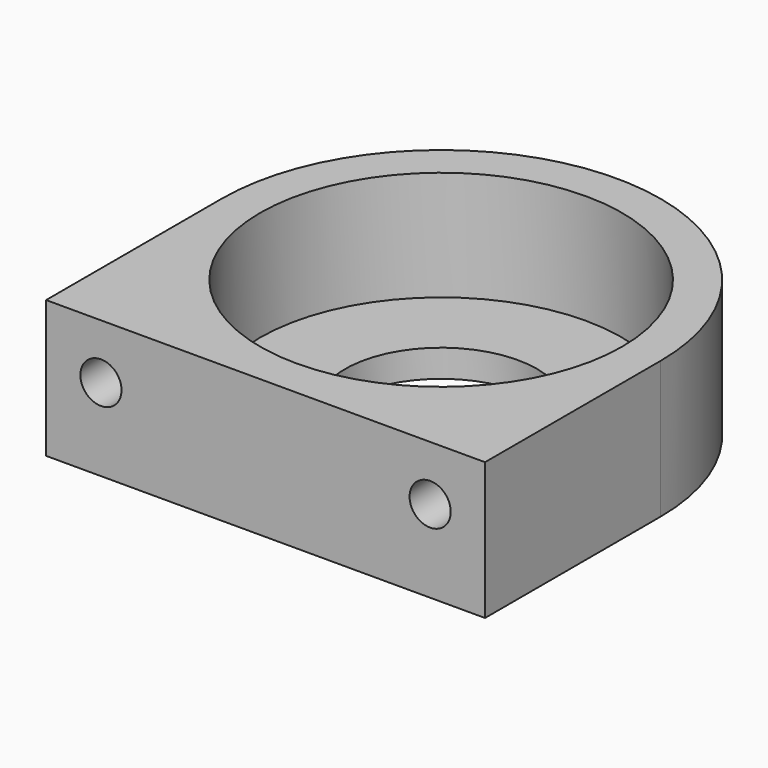
from build123d import *

# Parameters (mm, degrees)
F0_R     = 16
F1_DEPTH = 10
F2_W     = 32
F2_H     = 16
F3_DEPTH = 10
F4_R     = 13.2
F5_DEPTH = 8
F6_R     = 7
F7_DEPTH = 25
F8_R     = 1.5
F9_DEPTH = 7


with BuildPart() as f1:
    # F0 (on Top) → F1 (new body)
    with BuildSketch(Plane.XY):
        Circle(F0_R)
    extrude(amount=F1_DEPTH)

    # F2 (on face) → F3 (join)
    with BuildSketch(Plane.XY.offset(10)):
        with Locations((0, -8)):
            Rectangle(F2_W, F2_H)
    extrude(amount=-F3_DEPTH)

    # F4 (on face) → F5 (cut)
    with BuildSketch(Plane.XY.offset(10)):
        Circle(F4_R)
    extrude(amount=-F5_DEPTH, mode=Mode.SUBTRACT)

    # F6 (on face) → F7 (cut)
    with BuildSketch(Plane.XY.offset(2)):
        Circle(F6_R)
    extrude(amount=-F7_DEPTH, mode=Mode.SUBTRACT)

    # F8 (on face) → F9 (cut)
    with BuildSketch(Plane.XZ.offset(16)):
        with Locations((-12, 6)):
            Circle(F8_R)
        with Locations((12, 6)):
            Circle(F8_R)
    extrude(amount=-F9_DEPTH, mode=Mode.SUBTRACT)


solid = f1.part
